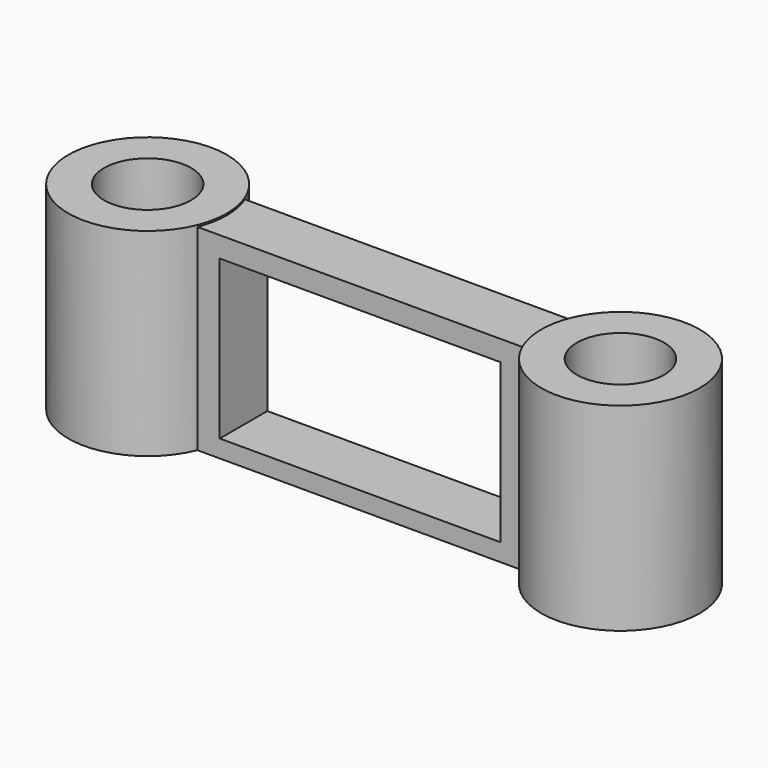
from build123d import *

# Parameters (mm, degrees)
F0_R      = 8
F1_DEPTH  = 20
F2_R      = 4.4
F3_DEPTH  = 20
F4_W      = 34.088476
F4_H      = 19.83197
F4_W_2    = 28.298552
F4_H_2    = 15.987633
F5_DEPTH  = 3
F6_DEPTH  = 3
F7_R      = 8
F8_DEPTH  = 20
F9_R      = 4.4
F10_DEPTH = 20


with BuildPart() as f1:
    # F0 (on Top) → F1 (new body)
    with BuildSketch(Plane.XY):
        Circle(F0_R)
    extrude(amount=F1_DEPTH)

    # F2 (on face) → F3 (cut)
    with BuildSketch(Plane.XY.offset(20)):
        Circle(F2_R)
    extrude(amount=-F3_DEPTH, mode=Mode.SUBTRACT)

    # F4 (on Front) → F5 (join)
    with BuildSketch(Plane.XZ):
        with Locations((-23.512398, 9.915985)):
            Rectangle(F4_W, F4_H)
        with Locations((-23.873756, 9.765204)):
            Rectangle(F4_W_2, F4_H_2, mode=Mode.SUBTRACT)
    extrude(amount=F5_DEPTH)

    # F4 (on Front) → F6 (join)
    with BuildSketch(Plane.XZ):
        with Locations((-23.512398, 9.915985)):
            Rectangle(F4_W, F4_H)
        with Locations((-23.873756, 9.765204)):
            Rectangle(F4_W_2, F4_H_2, mode=Mode.SUBTRACT)
    extrude(amount=-F6_DEPTH)

    # F7 (on face) → F8 (join)
    with BuildSketch(Plane(origin=(0, 0, 0), x_dir=(1, 0, 0), z_dir=(0, 0, -1))):
        with Locations((-47.696788, 0)):
            Circle(F7_R)
    extrude(amount=-F8_DEPTH)

    # F9 (on face) → F10 (cut)
    with BuildSketch(Plane.XY.offset(20)):
        with Locations((-47.696788, 0)):
            Circle(F9_R)
    extrude(amount=-F10_DEPTH, mode=Mode.SUBTRACT)


solid = f1.part
